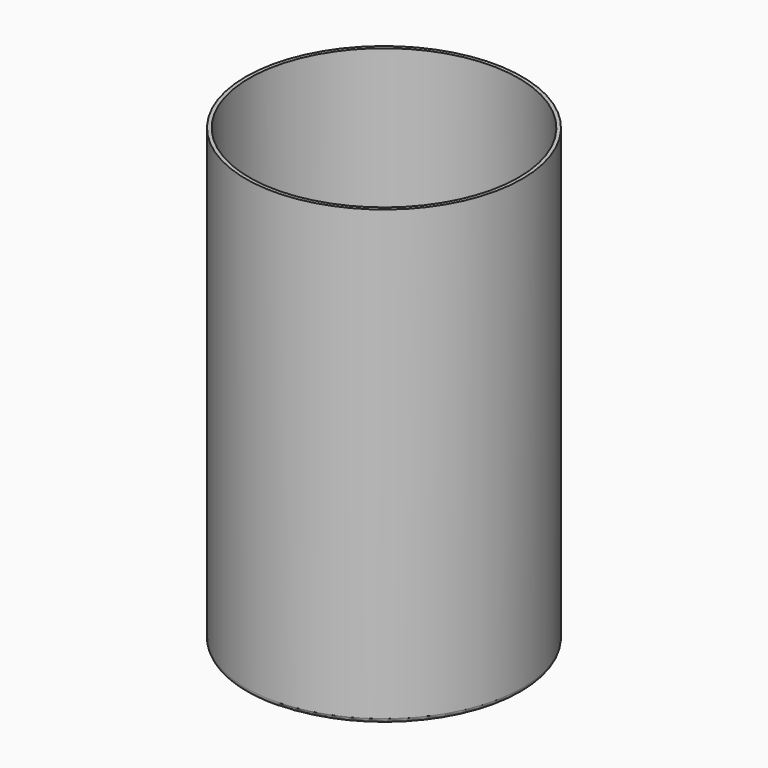
from build123d import *

# Parameters (mm, degrees)
F0_R     = 290
F1_DEPTH = 950
F2_T     = -7.62
F3_R     = 10


with BuildPart() as f1:
    # F0 (on Top) → F1 (new body)
    with BuildSketch(Plane.XY):
        Circle(F0_R)
    extrude(amount=-F1_DEPTH)

    # F2
    f2_openings = [f1.faces().sort_by_distance(p)[0] for p in [
        (0, 0, 0),
    ]]
    offset(amount=F2_T, openings=f2_openings)

    # F3
    f3_edges = [f1.edges().sort_by_distance(p)[0] for p in [
        (-290, 0, -950),
    ]]
    fillet(f3_edges, radius=F3_R)


solid = f1.part
